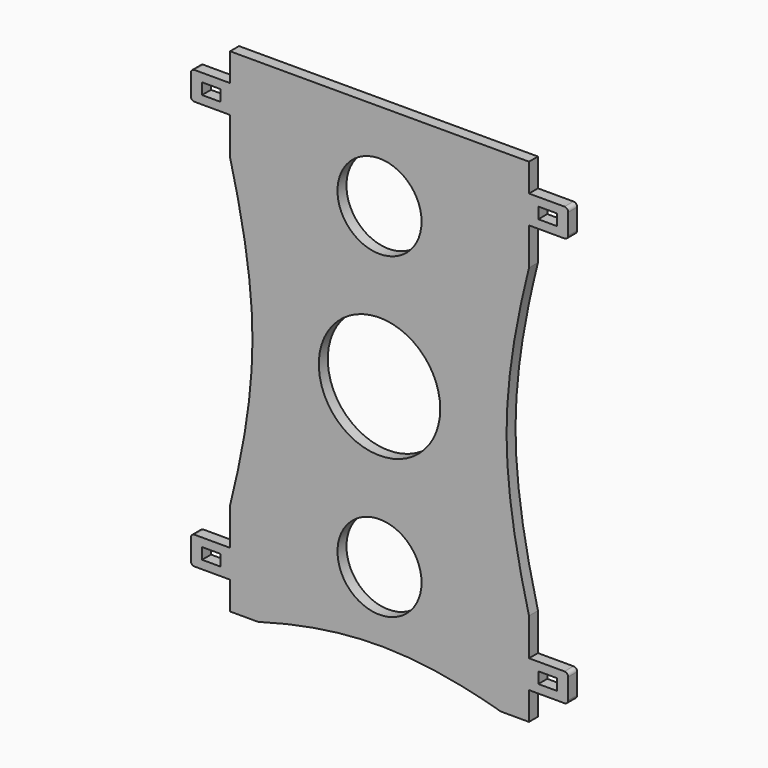
from build123d import *

# Parameters (mm, degrees)
F0_R     = 22.5
F0_R_2   = 32.5
F1_DEPTH = 6
F2_W     = 10
F2_H     = 6
F3_DEPTH = 25
F5_DEPTH = 25


with BuildPart() as f1:
    # F0 (on Front) → F1 (new body)
    with BuildSketch(Plane.XZ):
        Polygon((80, 132), (-80, 132), (-80, 117), (-80, 102), (-80, 74.3303437366), (-80, -102), (-80, -117), (-80, -132), (80, -132), (80, -117), (80, -102), (80, -74.3303437366), (80, 102), (80, 117), align=None)
        with Locations((0, -85)):
            Circle(F0_R, mode=Mode.SUBTRACT)
        Circle(F0_R_2, mode=Mode.SUBTRACT)
        with Locations((0, 85)):
            Circle(F0_R, mode=Mode.SUBTRACT)
        with BuildLine():
            Line((-80, 102), (-80, 117))
            Line((-80, 117), (-99, 117))
            ThreePointArc((-99, 117), (-100.4142135624, 116.4142135624), (-101, 115))
            Line((-101, 115), (-101, 104))
            ThreePointArc((-101, 104), (-100.4142135624, 102.5857864376), (-99, 102))
            Line((-99, 102), (-80, 102))
        make_face()
        with BuildLine():
            Line((99, 117), (80, 117))
            Line((80, 117), (80, 102))
            Line((80, 102), (99, 102))
            ThreePointArc((99, 102), (100.4142135624, 102.5857864376), (101, 104))
            Line((101, 104), (101, 115))
            ThreePointArc((101, 115), (100.4142135624, 116.4142135624), (99, 117))
        make_face()
        with BuildLine():
            Line((-80, -117), (-80, -102))
            Line((-80, -102), (-99, -102))
            ThreePointArc((-99, -102), (-100.4142135624, -102.5857864376), (-101, -104))
            Line((-101, -104), (-101, -115))
            ThreePointArc((-101, -115), (-100.4142135624, -116.4142135624), (-99, -117))
            Line((-99, -117), (-80, -117))
        make_face()
        with BuildLine():
            Line((99, -102), (80, -102))
            Line((80, -102), (80, -117))
            Line((80, -117), (99, -117))
            ThreePointArc((99, -117), (100.4142135624, -116.4142135624), (101, -115))
            Line((101, -115), (101, -104))
            ThreePointArc((101, -104), (100.4142135624, -102.5857864376), (99, -102))
        make_face()
    extrude(amount=F1_DEPTH)

    # F2 (on face) → F3 (cut)
    with BuildSketch(Plane.XZ.offset(6)):
        with Locations((-90, 109.5)):
            Rectangle(F2_W, F2_H)
        with Locations((90, 109.5)):
            Rectangle(F2_W, F2_H)
        with Locations((-90, -109.5)):
            Rectangle(F2_W, F2_H)
        with Locations((90, -109.5)):
            Rectangle(F2_W, F2_H)
    extrude(amount=-F3_DEPTH, mode=Mode.SUBTRACT)

    # F4 (on face) → F5 (cut)
    with BuildSketch(Plane.XZ.offset(6)):
        with BuildLine():
            add(Edge.make_bspline(
                [(-65, -132), (-43.3333333333, -125.837706387), (0, -118.162293613), (43.3333333333, -125.837706387), (65, -132)],
                knots=[0, 0, 0, 0, 0.5, 1, 1, 1, 1], degree=3))
            Line((-65, -132), (-65, -149.1421461105))
            Line((-65, -149.1421461105), (65, -149.1421461105))
            Line((65, -149.1421461105), (65, -132))
        make_face()
        with BuildLine():
            Line((104.2380854487, 82), (80, 82))
            add(Edge.make_bspline(
                [(80, 82), (74, 58), (62, 0), (74, -58), (80, -82)],
                knots=[0, 0, 0, 0, 0.5, 1, 1, 1, 1], degree=3))
            Line((80, -82), (104.2380854487, -82))
            Line((104.2380854487, -82), (104.2380854487, 82))
        make_face()
        with BuildLine():
            add(Edge.make_bspline(
                [(-80, 82), (-74, 58), (-62, 0), (-74, -58), (-80, -82)],
                knots=[0, 0, 0, 0, 0.5, 1, 1, 1, 1], degree=3))
            Line((-80, 82), (-104.2380854487, 82))
            Line((-104.2380854487, 82), (-104.2380854487, -82))
            Line((-104.2380854487, -82), (-80, -82))
        make_face()
    extrude(amount=-F5_DEPTH, mode=Mode.SUBTRACT)


solid = f1.part
